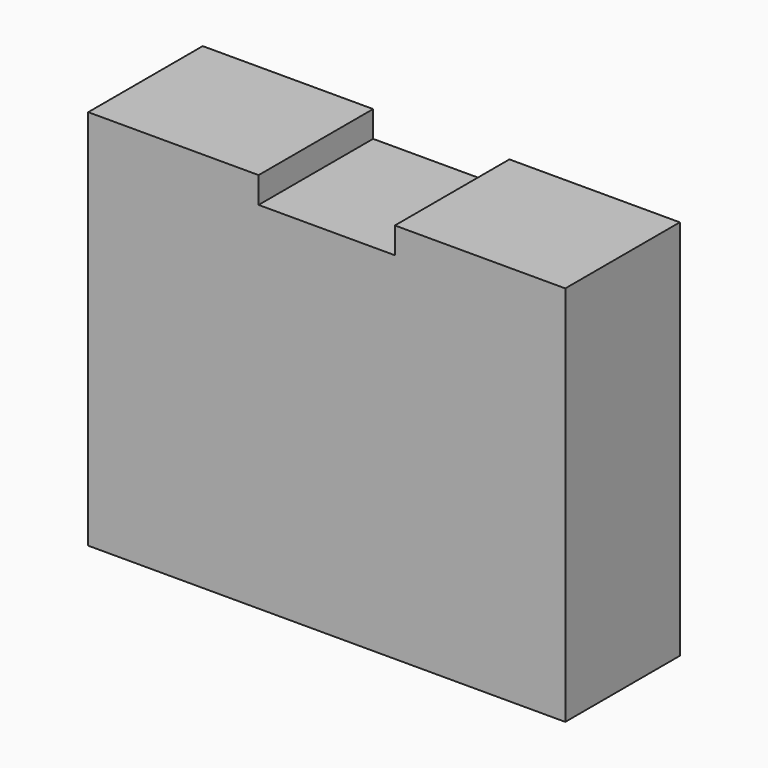
from build123d import *

# Parameters (mm, degrees)
F1_DEPTH = 30
F2_R     = 4
F3_DEPTH = 20


with BuildPart() as f1:
    # F0 (on Front) → F1 (new body)
    with BuildSketch(Plane.XZ):
        Polygon((-50, 28.25), (-50, -51.75), (50, -51.75), (50, 28.25), (14.282857, 28.25), (14.282857, 22.75), (-14.282857, 22.75), (-14.282857, 28.25), align=None)
    extrude(amount=F1_DEPTH)

    # F2 (on face) → F3 (cut)
    with BuildSketch(Plane(origin=(0, 0, -51.75), x_dir=(1, 0, 0), z_dir=(0, 0, -1))):
        with Locations((-27.5, 15)):
            Circle(F2_R)
        with Locations((27.5, 15)):
            Circle(F2_R)
    extrude(amount=-F3_DEPTH, mode=Mode.SUBTRACT)


solid = f1.part
